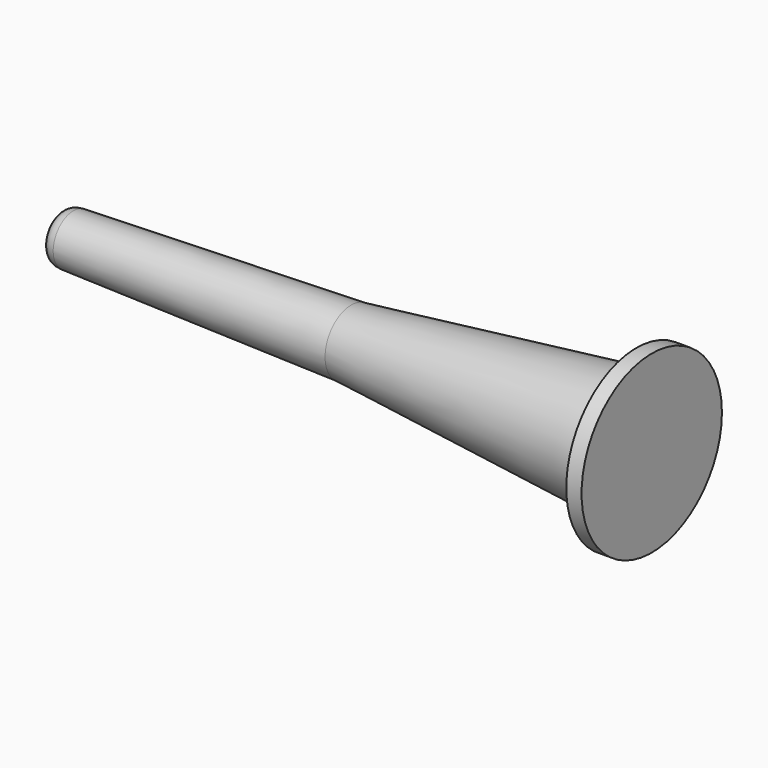
from build123d import *


with BuildPart() as f1:
    # F0 (on Top) → F1 (revolve)
    with BuildSketch(Plane.XY):
        with BuildLine():
            add(Edge.make_bspline(
                [(3.6, 6.6), (0, 6.6), (0, 3.879812), (0, 0)],
                knots=[0, 0, 0, 0, 7.517978, 7.517978, 7.517978, 7.517978], degree=3))
            Line((0, 0), (154.6, 0))
            Line((154.6, 0), (154.6, 22.9))
            Line((154.6, 22.9), (150.6, 22.9))
            Line((150.6, 22.9), (150.6, 16.5))
            Line((150.6, 16.5), (76.1, 8.5))
            Line((76.1, 8.5), (3.6, 6.6))
        make_face()
    revolve(axis=Axis((77.3, 0, 0), (1, 0, 0)))


solid = f1.part
